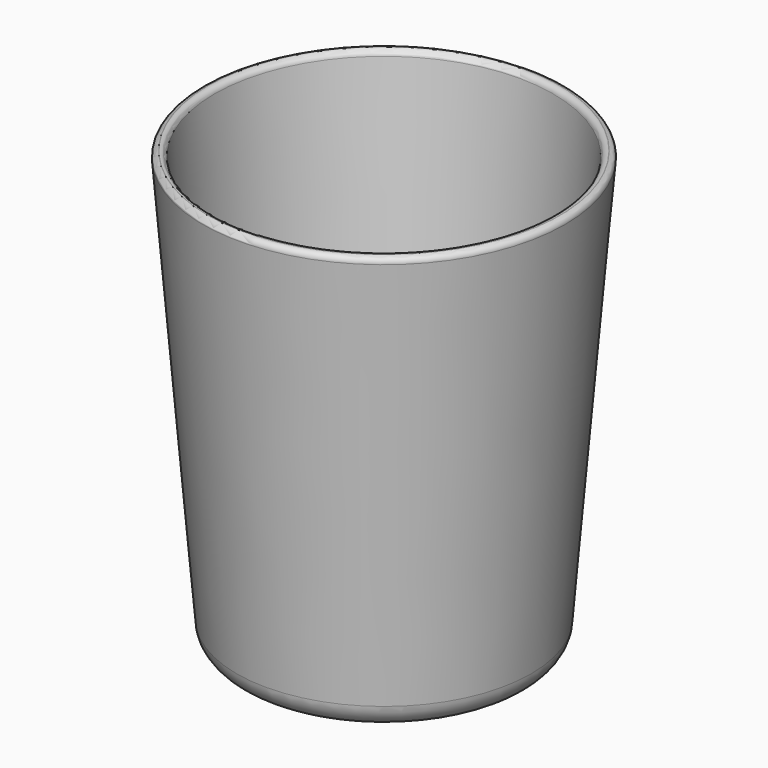
from build123d import *


with BuildPart() as f1:
    # F0 (on Front) → F1 (revolve)
    with BuildSketch(Plane.XZ):
        with BuildLine():
            ThreePointArc((-9.704435, 116.453224), (30.863971, 33.54295), (116.856876, 0))
            Line((116.856876, 0), (711.2, 0))
            Line((711.2, 0), (711.2, 57.15))
            Line((711.2, 57.15), (99.328345, 57.15))
            ThreePointArc((99.328345, 57.15), (64.931183, 70.56718), (48.70382, 103.73129))
            Line((48.70382, 103.73129), (-118.527119, 2110.502561))
            ThreePointArc((-118.527119, 2110.502561), (-128.322981, 2129.511283), (-148.690898, 2136.025758))
            Line((-148.690898, 2136.025758), (-149.956512, 2135.920291))
            ThreePointArc((-149.956512, 2135.920291), (-168.965234, 2126.124428), (-175.479709, 2105.756512))
            Line((-175.479709, 2105.756512), (-9.704435, 116.453224))
        make_face()
    revolve(axis=Axis((711.2, 0, 1066.8), (0, 0, 1)))


solid = f1.part
